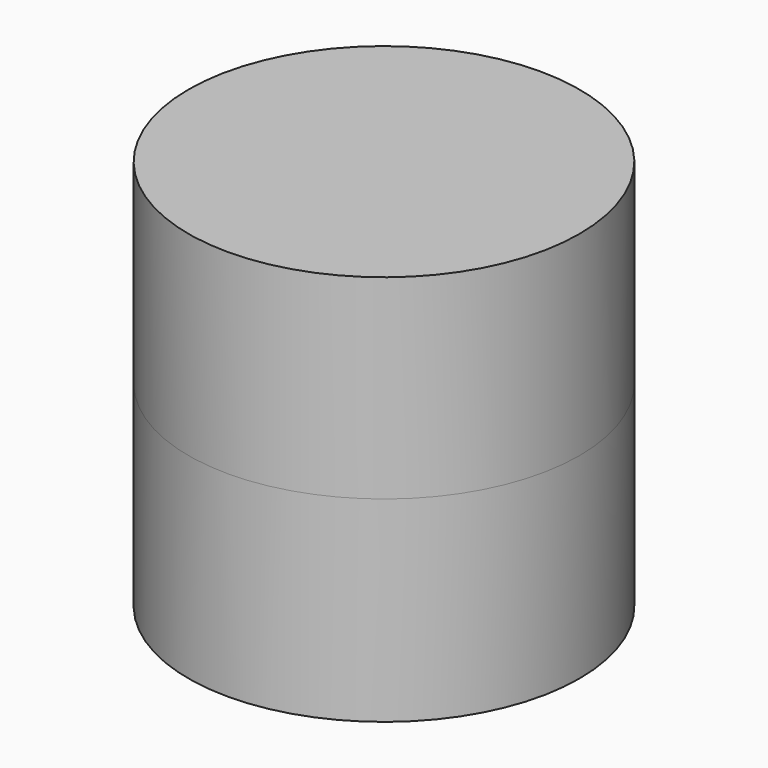
from build123d import *

# Parameters (mm, degrees)
F0_R     = 76.705941
F1_DEPTH = 76.988608
F2_DEPTH = 76.592825


with BuildPart() as f1:
    # F0 (on Top) → F1 (new body)
    with BuildSketch(Plane.XY):
        Circle(F0_R)
    extrude(amount=-F1_DEPTH)

    # F0 (on Top) → F2 (join)
    with BuildSketch(Plane.XY):
        Circle(F0_R)
    extrude(amount=F2_DEPTH)


solid = f1.part
